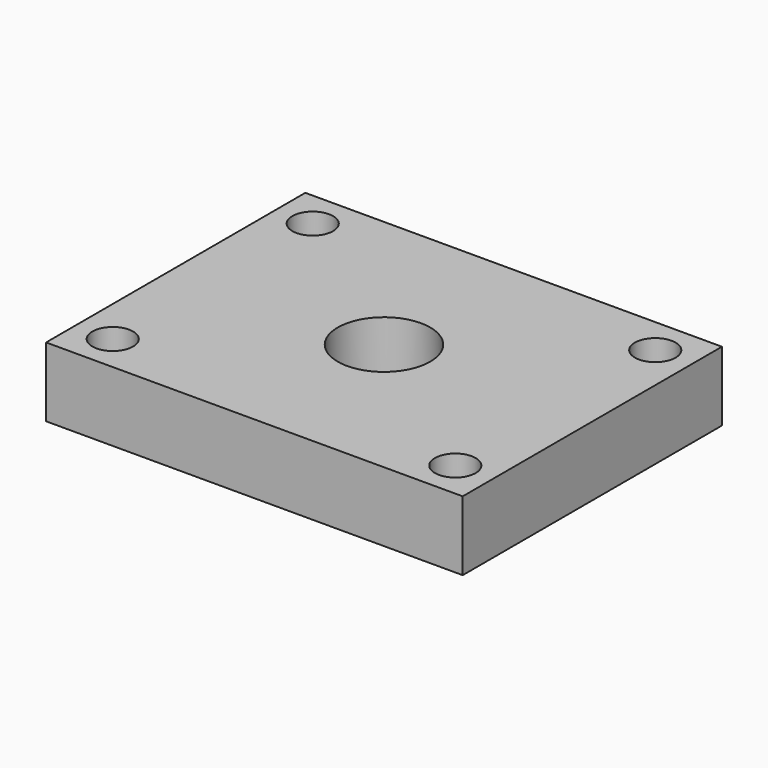
from build123d import *

# Parameters (mm, degrees)
F0_W           = 90
F0_H           = 15
F4_D           = 8.8
F6_D           = 11
F6_CBORE_D     = 20
F6_CBORE_DEPTH = 12


with BuildPart() as f2:
    # F2: sweep along a path in F1
    with BuildLine(Plane.YZ) as f2_path:
        Line((0, 0), (70, 0))
    # F0 (on Front) → F2 (sweep)
    with BuildSketch(Plane.XZ):
        with Locations((45, 7.5)):
            Rectangle(F0_W, F0_H)
    sweep(path=f2_path.line)

    # F4 (through all)
    with Locations(Plane.XY.offset(15)):
        with Locations((8, 62), (82, 62), (82, 8), (8, 8)):
            Hole(F4_D / 2)

    # F6 (through all)
    with Locations(Plane.XY.offset(15)):
        with Locations((45, 35)):
            CounterBoreHole(F6_D / 2, F6_CBORE_D / 2, F6_CBORE_DEPTH)


solid = f2.part
